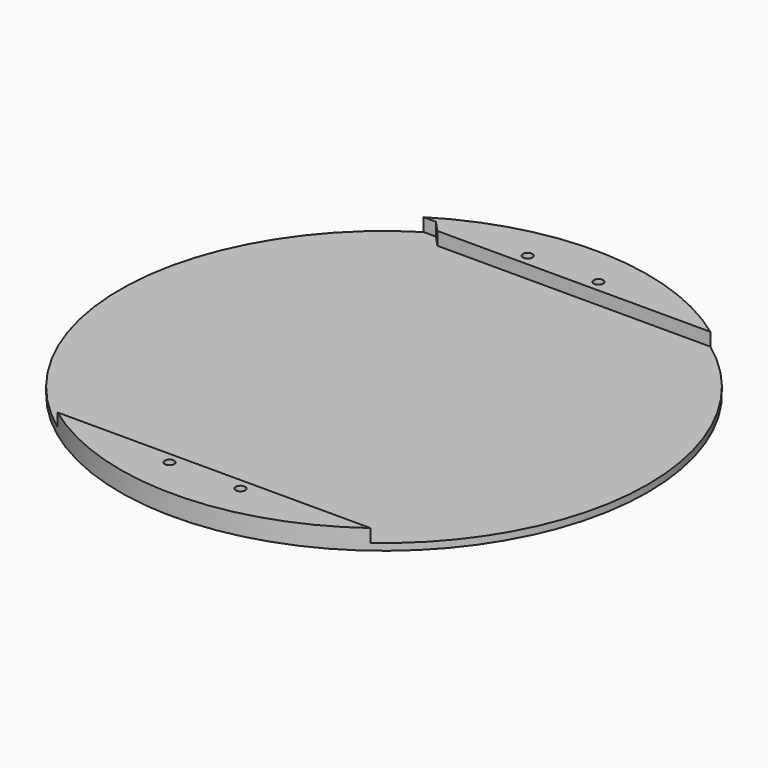
from build123d import *

# Parameters (mm, degrees)
SKETCH002_R      = 115
PAD001_DEPTH     = 8.7
SKETCH005_W      = 5.7
SKETCH005_H      = 185.2
POCKET_DEPTH     = 257
SKETCH016_W      = 13
SKETCH016_H      = 6
POCKET004_DEPTH  = 5
CHAMFER001_ANGLE = 47
CHAMFER001_SIZE  = 4.6
SKETCH018_R      = 2.1
POCKET005_DEPTH  = 10
SKETCH019_R      = 2.1
POCKET006_DEPTH  = 10
POCKET007_DEPTH  = 5


with BuildPart() as part:
    # Sketch002 → Pad001 (new body)
    with BuildSketch(Plane.XY):
        Circle(SKETCH002_R)
    extrude(amount=PAD001_DEPTH)

    # Sketch005 (on DatumPlane) → Pocket (cut)
    with BuildSketch(Plane(origin=(115, 0, 4.35), x_dir=(0, 0, -1), z_dir=(1, 0, 0))):
        with Locations((-1.5, 0)):
            Rectangle(SKETCH005_W, SKETCH005_H)
    extrude(amount=-POCKET_DEPTH, mode=Mode.SUBTRACT)

    # Sketch016 (on Face6 of Pocket) → Pocket004 (cut)
    with BuildSketch(Plane.XZ.offset(-92.6)):
        with Locations((-61.897977, 6)):
            Rectangle(SKETCH016_W, SKETCH016_H)
    extrude(amount=-POCKET004_DEPTH, mode=Mode.SUBTRACT)

    # Chamfer001
    chamfer001_edges = [part.edges().sort_by_distance(p)[0] for p in [
        (-55.397977, 92.6, 5.85),
    ]]
    chamfer001_side = part.faces().sort_by_distance((6.397346, 92.6, 5.85))[0]
    chamfer(chamfer001_edges, length=CHAMFER001_SIZE, angle=CHAMFER001_ANGLE, reference=chamfer001_side)

    # Sketch018 (on Face1 of Chamfer001) → Pocket005 (cut)
    with BuildSketch(Plane.XY.offset(8.7)):
        with Locations((15.447874, 97.534228)):
            Circle(SKETCH018_R)
        with Locations((-15.447903, 97.534224)):
            Circle(SKETCH018_R)
    extrude(amount=-POCKET005_DEPTH, mode=Mode.SUBTRACT)

    # Sketch019 (on Face11 of Pocket005) → Pocket006 (cut)
    with BuildSketch(Plane.XY.offset(8.7)):
        with Locations((-15.447907, -97.534223)):
            Circle(SKETCH019_R)
        with Locations((15.447907, -97.534223)):
            Circle(SKETCH019_R)
    extrude(amount=-POCKET006_DEPTH, mode=Mode.SUBTRACT)

    # Sketch020 (on Face12 of Pocket006) → Pocket007 (cut)
    with BuildSketch(Plane(origin=(0, 0, 0), x_dir=(1, 0, 0), z_dir=(0, 0, -1))):
        Polygon((14.79085, 93.385937), (18.711887, 94.891084), (19.368911, 99.039375), (16.104897, 101.68252), (12.18386, 100.177373), (11.526836, 96.029082), align=None)
        Polygon((14.790851, -93.385937), (18.711888, -94.891084), (19.368912, -99.039375), (16.104898, -101.682519), (12.183861, -100.177373), (11.526837, -96.029082), align=None)
        Polygon((-14.79085, 93.385937), (-18.711887, 94.891084), (-19.368911, 99.039375), (-16.104897, 101.68252), (-12.18386, 100.177373), (-11.526836, 96.029082), align=None)
        Polygon((-14.790851, -93.385937), (-18.711888, -94.891084), (-19.368912, -99.039375), (-16.104898, -101.682519), (-12.183861, -100.177373), (-11.526837, -96.029082), align=None)
    extrude(amount=-POCKET007_DEPTH, mode=Mode.SUBTRACT)


solid = part.part
